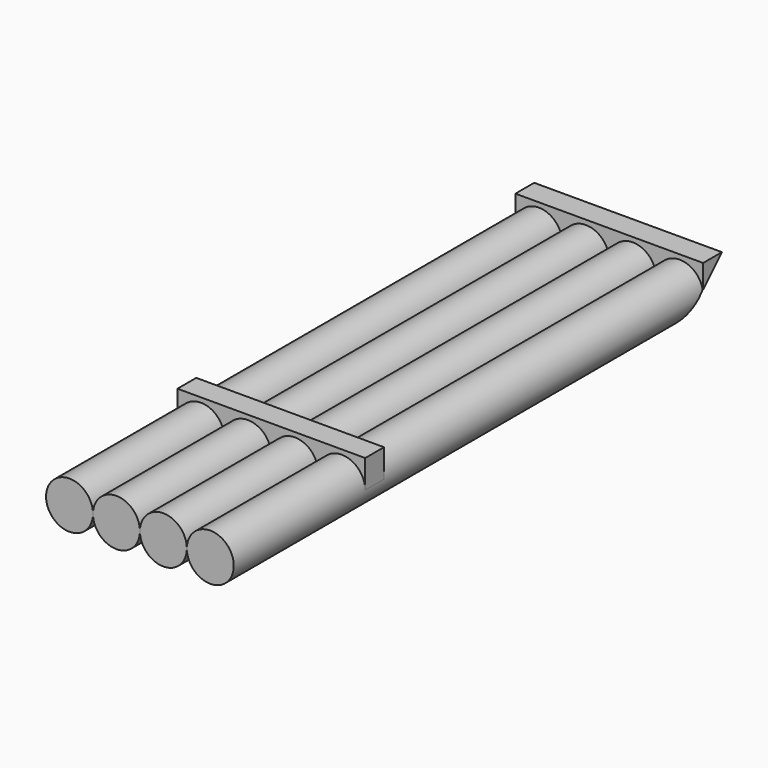
from build123d import *

# Parameters (mm, degrees)
F1_DEPTH    = 700
F0_R        = 25
F0_R_2      = 21
F4_DEPTH    = 25
F7_DEPTH    = 25
F10_DEPTH   = 5
F9_R        = 21
F1_FACE_R   = 25
F1_FACE_R_2 = 21
F11_DEPTH   = 50
F13_DEPTH   = 200


with BuildPart() as f1:
    # F0 (on Front) → F1 (new body)
    with BuildSketch(Plane.XZ):
        with BuildLine():
            Line((21, 0), (25, 0))
            ThreePointArc((25, 0), (0, 25), (-25, 0))
            Line((-25, 0), (-21, 0))
            ThreePointArc((-21, 0), (0, 21), (21, 0))
        make_face()
        with BuildLine():
            ThreePointArc((-25, 0), (0, -25), (25, 0))
            Line((25, 0), (21, 0))
            ThreePointArc((21, 0), (0, -21), (-21, 0))
            Line((-21, 0), (-25, 0))
        make_face()
    extrude(amount=F1_DEPTH)

    # F9 (on face) → F10, piece 2 (join)
    with BuildSketch(Plane.XZ.offset(700)):
        with BuildLine():
            ThreePointArc((-21, 0), (0, -21), (21, 0))
            ThreePointArc((21, 0), (0, 21), (-21, 0))
        make_face()
    extrude(amount=-F10_DEPTH)


with BuildPart() as f1b:
    # F0 (on Front) → F1, piece 2 (new body)
    with BuildSketch(Plane.XZ):
        with Locations((-100, 0)):
            Circle(F0_R)
        with Locations((-100, 0)):
            Circle(F0_R_2, mode=Mode.SUBTRACT)
    extrude(amount=F1_DEPTH)

    # F9 (on face) → F10, piece 4 (join)
    with BuildSketch(Plane.XZ.offset(700)):
        with Locations((-100, 0)):
            Circle(F9_R)
    extrude(amount=-F10_DEPTH)


with BuildPart() as f1c:
    # F0 (on Front) → F1, piece 3 (new body)
    with BuildSketch(Plane.XZ):
        with BuildLine():
            ThreePointArc((-75, 0), (-50, -25), (-25, 0))
            Line((-25, 0), (-29, 0))
            ThreePointArc((-29, 0), (-50, -21), (-71, 0))
            Line((-71, 0), (-75, 0))
        make_face()
        with BuildLine():
            Line((-29, 0), (-25, 0))
            ThreePointArc((-25, 0), (-50, 25), (-75, 0))
            Line((-75, 0), (-71, 0))
            ThreePointArc((-71, 0), (-50, 21), (-29, 0))
        make_face()
    extrude(amount=F1_DEPTH)

    # F9 (on face) → F10, piece 3 (join)
    with BuildSketch(Plane.XZ.offset(700)):
        with Locations((-50, 0)):
            Circle(F9_R)
    extrude(amount=-F10_DEPTH)


with BuildPart() as f1d:
    # F0 (on Front) → F1, piece 4 (new body)
    with BuildSketch(Plane.XZ):
        with BuildLine():
            ThreePointArc((75, 0), (50, 25), (25, 0))
            ThreePointArc((25, 0), (50, -25), (75, 0))
        make_face()
        with BuildLine():
            ThreePointArc((71, 0), (50, -21), (29, 0))
            ThreePointArc((29, 0), (50, 21), (71, 0))
        make_face(mode=Mode.SUBTRACT)
    extrude(amount=F1_DEPTH)

    # F9 (on face) → F10 (join)
    with BuildSketch(Plane.XZ.offset(700)):
        with BuildLine():
            ThreePointArc((29, 0), (50, -21), (71, 0))
            ThreePointArc((71, 0), (50, 21), (29, 0))
        make_face()
    extrude(amount=-F10_DEPTH)


with BuildPart() as f4:
    # F3 (on offset) → F4 (new body)
    with BuildSketch(Plane.XZ.offset(50)):
        with BuildLine():
            ThreePointArc((50, 25), (67.6776695297, 17.6776695297), (75, 0))
            Line((75, 0), (75, 25))
            Line((75, 25), (50, 25))
        make_face()
        with BuildLine():
            ThreePointArc((-100, 25), (-82.3223304703, 17.6776695297), (-75, 0))
            ThreePointArc((-75, 0), (-67.6776695297, 17.6776695297), (-50, 25))
            Line((-50, 25), (-100, 25))
        make_face()
        with BuildLine():
            Line((-100, 25), (-125, 25))
            Line((-125, 25), (-125, 0))
            ThreePointArc((-125, 0), (-117.6776695297, 17.6776695297), (-100, 25))
        make_face()
        with BuildLine():
            ThreePointArc((5.22e-08, 25), (17.6776695481, 17.6776695112), (25, 0))
            ThreePointArc((25, 0), (32.3223304703, 17.6776695297), (50, 25))
            Line((50, 25), (5.22e-08, 25))
        make_face()
        with BuildLine():
            ThreePointArc((-50, 25), (-32.3223304703, 17.6776695297), (-25, 0))
            ThreePointArc((-25, 0), (-17.6776695112, 17.6776695481), (5.22e-08, 25))
            Line((5.22e-08, 25), (-50, 25))
        make_face()
        Polygon((50, 25), (75, 25), (75, 30), (-125, 30), (-125, 25), (-100, 25), (-50, 25), (5.22e-08, 25), align=None)
    extrude(amount=F4_DEPTH)


with BuildPart() as f7:
    # F6 (on offset) → F7 (new body)
    with BuildSketch(Plane.XZ.offset(500)):
        with BuildLine():
            ThreePointArc((-50, 25), (-32.3223304703, 17.6776695297), (-25, 0))
            ThreePointArc((-25, 0), (-17.6776695112, 17.6776695481), (5.22e-08, 25))
            Line((5.22e-08, 25), (-50, 25))
        make_face()
        Polygon((50, 25), (75, 25), (75, 30), (-125, 30), (-125, 25), (-99.9999998635, 25), (-50, 25), (5.22e-08, 25), align=None)
        with BuildLine():
            Line((-99.9999998635, 25), (-125, 25))
            Line((-125, 25), (-125, 1.365e-07))
            ThreePointArc((-125, 1.365e-07), (-117.6776694331, 17.6776696262), (-99.9999998635, 25))
        make_face()
        with BuildLine():
            ThreePointArc((50, 25), (67.6776695297, 17.6776695297), (75, 0))
            Line((75, 0), (75, 25))
            Line((75, 25), (50, 25))
        make_face()
        with BuildLine():
            ThreePointArc((5.22e-08, 25), (17.6776695481, 17.6776695112), (25, 0))
            ThreePointArc((25, 0), (32.3223304703, 17.6776695297), (50, 25))
            Line((50, 25), (5.22e-08, 25))
        make_face()
        with BuildLine():
            ThreePointArc((-99.9999998635, 25), (-82.3223304221, 17.6776694814), (-75, 0))
            ThreePointArc((-75, 0), (-67.6776695297, 17.6776695297), (-50, 25))
            Line((-50, 25), (-99.9999998635, 25))
        make_face()
    extrude(amount=F7_DEPTH)


with BuildPart() as f11_tool:
    # F1_face (on face) + F8 (on face) → F11 (new body)
    with BuildSketch(Plane(origin=(-100, 0, 0), x_dir=(1, 0, 0), z_dir=(0, 1, 0))):
        with Locations((50, 0)):
            Circle(F1_FACE_R)
        with Locations((50, 0)):
            Circle(F1_FACE_R_2, mode=Mode.SUBTRACT)
        with Locations((150, 0)):
            Circle(F1_FACE_R)
        with Locations((150, 0)):
            Circle(F1_FACE_R_2, mode=Mode.SUBTRACT)
        with Locations((100, 0)):
            Circle(F1_FACE_R)
        with Locations((100, 0)):
            Circle(F1_FACE_R_2, mode=Mode.SUBTRACT)
    with BuildSketch(Plane(origin=(0, 0, 0), x_dir=(-1, 0, 0), z_dir=(0, 1, 0))):
        with BuildLine():
            ThreePointArc((125, 0), (100, 25), (75, 0))
            ThreePointArc((75, 0), (100, -25), (125, 0))
        make_face()
        with BuildLine():
            ThreePointArc((79, 0), (100, 21), (121, 0))
            ThreePointArc((121, 0), (100, -21), (79, 0))
        make_face(mode=Mode.SUBTRACT)
    extrude(amount=-F11_DEPTH)


with BuildPart() as f1_1:
    add(f1.part)

    # F11: cut by f11_tool
    add(f11_tool.part, mode=Mode.SUBTRACT)


with BuildPart() as f1b_1:
    add(f1b.part)

    # F11: cut by f11_tool
    add(f11_tool.part, mode=Mode.SUBTRACT)


with BuildPart() as f1c_1:
    add(f1c.part)

    # F11: cut by f11_tool
    add(f11_tool.part, mode=Mode.SUBTRACT)


with BuildPart() as f1d_1:
    add(f1d.part)

    # F11: cut by f11_tool
    add(f11_tool.part, mode=Mode.SUBTRACT)


with BuildPart() as f13_tool:
    # F12 (on face) → F13 (new body)
    with BuildSketch(Plane(origin=(-125, 0, 0), x_dir=(0, -1, 0), z_dir=(-1, 0, 0))):
        Polygon((105, -25), (50, 30), (50, -25), align=None)
    extrude(amount=-F13_DEPTH)


with BuildPart() as f1_2:
    add(f1_1.part)

    # F13: cut by f13_tool
    add(f13_tool.part, mode=Mode.SUBTRACT)


with BuildPart() as f1b_2:
    add(f1b_1.part)

    # F13: cut by f13_tool
    add(f13_tool.part, mode=Mode.SUBTRACT)


with BuildPart() as f1c_2:
    add(f1c_1.part)

    # F13: cut by f13_tool
    add(f13_tool.part, mode=Mode.SUBTRACT)


with BuildPart() as f1d_2:
    add(f1d_1.part)

    # F13: cut by f13_tool
    add(f13_tool.part, mode=Mode.SUBTRACT)


with BuildPart() as f4_1:
    add(f4.part)

    # F13: cut by f13_tool
    add(f13_tool.part, mode=Mode.SUBTRACT)


solid = Compound([f7.part, f1_2.part, f1b_2.part, f1c_2.part, f1d_2.part, f4_1.part])
